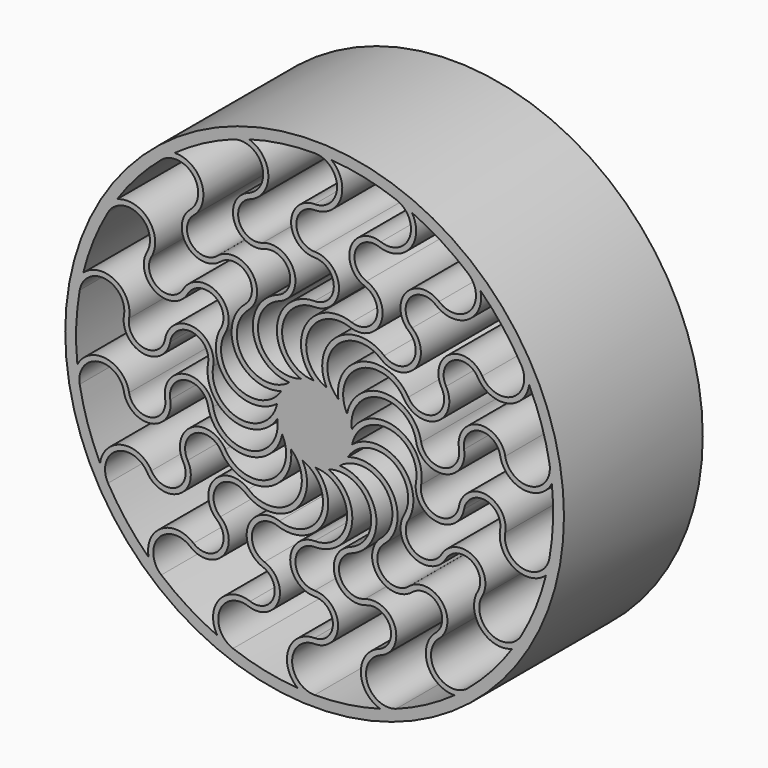
from build123d import *

# Parameters (mm, degrees)
F0_R     = 73.025
F1_DEPTH = 50.8


with BuildPart() as f1:
    # F0 (on Front) → F1 (new body)
    with BuildSketch(Plane.XZ):
        Circle(F0_R)
        with BuildLine():
            ThreePointArc((-27.5923009334, -32.8832237653), (-28.2849735231, -24.9659398366), (-20.3676895943, -24.2732672469))
            ThreePointArc((-20.3676895943, -24.2732672469), (-6.273822818, -24.3647340884), (-3.5566442428, -10.5349695393))
            ThreePointArc((-3.5566442428, -10.5349695393), (1.8466499748, -22.772992989), (-10.3161825731, -28.3434786745))
            ThreePointArc((-10.3161825731, -28.3434786745), (-19.4724181317, -32.6131014353), (-15.2027953708, -41.7693369939))
            ThreePointArc((-15.2027953708, -41.7693369939), (-12.0005783002, -48.6365136629), (-18.8677549692, -51.8387307335))
            ThreePointArc((-18.8677549692, -51.8387307335), (-27.9464606725, -54.3648992486), (-28.4974587806, -63.7723869951))
            ThreePointArc((-28.4974587806, -63.7723869951), (-37.0552010619, -59.2109328947), (-44.8987145366, -53.5082043519))
            ThreePointArc((-44.8987145366, -53.5082043519), (-45.7097676112, -44.2378252884), (-36.4393885478, -43.4267722137))
            ThreePointArc((-36.4393885478, -43.4267722137), (-26.7440705164, -42.5785417967), (-27.5923009334, -32.8832237653))
        make_face(mode=Mode.SUBTRACT)
        with BuildLine():
            ThreePointArc((-14.6815566724, -40.3372454399), (-18.0403265776, -33.1343401337), (-10.8374212715, -29.7755702285))
            ThreePointArc((-10.8374212715, -29.7755702285), (2.4377648388, -25.0411346097), (0.261019442, -11.11607711))
            ThreePointArc((0.261019442, -11.11607711), (9.5241056805, -20.768021976), (0, -30.1625))
            ThreePointArc((0, -30.1625), (-7.14375, -37.30625), (0, -44.45))
            ThreePointArc((0, -44.45), (5.3578125, -49.8078125), (0, -55.165625))
            ThreePointArc((0, -55.165625), (-7.6671922381, -60.6445471384), (-4.967410787, -69.6731464057))
            ThreePointArc((-4.967410787, -69.6731464057), (-14.5691672445, -68.3137018892), (-23.8901070113, -65.6375295619))
            ThreePointArc((-23.8901070113, -65.6375295619), (-27.8229039766, -57.2036192529), (-19.3889936676, -53.2708222876))
            ThreePointArc((-19.3889936676, -53.2708222876), (-10.5684867461, -49.1577523613), (-14.6815566724, -40.3372454399))
        make_face(mode=Mode.SUBTRACT)
        with BuildLine():
            ThreePointArc((-42.2738576058, -7.4540216745), (-37.7153435823, -0.9437889581), (-31.2051108658, -5.5023029816))
            ThreePointArc((-31.2051108658, -5.5023029816), (-20.4673762921, -14.6317335837), (-9.4962954466, -5.7840880227))
            ThreePointArc((-9.4962954466, -5.7840880227), (-13.2235817773, -18.6321284556), (-26.1214912416, -15.08125))
            ThreePointArc((-26.1214912416, -15.08125), (-35.8800352199, -12.4664560217), (-38.4948291982, -22.225))
            ThreePointArc((-38.4948291982, -22.225), (-40.4559246819, -29.5439079837), (-47.7748326656, -27.5828125))
            ThreePointArc((-47.7748326656, -27.5828125), (-56.3533145419, -23.6822903153), (-62.8224201425, -30.5346692703))
            ThreePointArc((-62.8224201425, -30.5346692703), (-66.4459848848, -21.5395819989), (-68.7888215479, -12.12932521))
            ThreePointArc((-68.7888215479, -12.12932521), (-63.4512394497, -4.5064679757), (-55.8283822154, -9.8440500739))
            ThreePointArc((-55.8283822154, -9.8440500739), (-47.8561057109, -15.426298179), (-42.2738576058, -7.4540216745))
        make_face(mode=Mode.SUBTRACT)
        with BuildLine():
            ThreePointArc((-37.1750064829, -21.463), (-35.1180352199, -13.7862787371), (-27.441313957, -15.84325))
            ThreePointArc((-27.441313957, -15.84325), (-14.2286948512, -20.7495870509), (-6.9453241415, -8.6831891626))
            ThreePointArc((-6.9453241415, -8.6831891626), (-6.0535389716, -22.031204954), (-19.3880812772, -23.1058155156))
            ThreePointArc((-19.3880812772, -23.1058155156), (-29.4524252544, -23.9863315194), (-28.5719092506, -34.0506754966))
            ThreePointArc((-28.5719092506, -34.0506754966), (-27.9115222477, -41.5989334796), (-35.4597802306, -42.2593204824))
            ThreePointArc((-35.4597802306, -42.2593204824), (-44.8549735039, -41.5280421691), (-48.5902926676, -50.1797365326))
            ThreePointArc((-48.5902926676, -50.1797365326), (-55.0718307547, -42.9664515329), (-60.4918744543, -34.925))
            ThreePointArc((-60.4918744543, -34.925), (-58.0833586677, -25.9362967133), (-49.094655381, -28.3448125))
            ThreePointArc((-49.094655381, -28.3448125), (-39.6939246819, -30.8637306991), (-37.1750064829, -21.463))
        make_face(mode=Mode.SUBTRACT)
        with BuildLine():
            ThreePointArc((0, -42.926), (-5.61975, -37.30625), (0, -31.6865))
            ThreePointArc((0, -31.6865), (10.8553220785, -22.6972047292), (4.0472003299, -10.3564217253))
            ThreePointArc((4.0472003299, -10.3564217253), (16.0528136804, -16.2581210092), (10.3161825731, -28.3434786745))
            ThreePointArc((10.3161825731, -28.3434786745), (6.0465598122, -37.4997142331), (15.2027953708, -41.7693369939))
            ThreePointArc((15.2027953708, -41.7693369939), (22.0699720398, -44.9715540646), (18.8677549692, -51.8387307335))
            ThreePointArc((18.8677549692, -51.8387307335), (13.5368527359, -59.609567625), (19.1617802587, -67.1702960937))
            ThreePointArc((19.1617802587, -67.1702960937), (9.6741231606, -69.1768302329), (0, -69.85))
            ThreePointArc((0, -69.85), (-6.5801875, -63.2698125), (0, -56.689625))
            ThreePointArc((0, -56.689625), (6.8818125, -49.8078125), (0, -42.926))
        make_face(mode=Mode.SUBTRACT)
        with BuildLine():
            ThreePointArc((14.6815566724, -40.3372454399), (7.4786513663, -36.9784755346), (10.8374212715, -29.7755702285))
            ThreePointArc((10.8374212715, -29.7755702285), (17.963567268, -17.6156569834), (7.3452291277, -8.3476290362))
            ThreePointArc((7.3452291277, -8.3476290362), (20.6453154361, -9.7872507045), (19.3880812772, -23.1058155156))
            ThreePointArc((19.3880812772, -23.1058155156), (18.5075652733, -33.1701594928), (28.5719092506, -34.0506754966))
            ThreePointArc((28.5719092506, -34.0506754966), (36.1201672335, -34.7110624995), (35.4597802306, -42.2593204824))
            ThreePointArc((35.4597802306, -42.2593204824), (33.1081534873, -51.3847945125), (40.9797778074, -56.5657167448))
            ThreePointArc((40.9797778074, -56.5657167448), (32.7505715377, -61.6962119093), (23.8901070113, -65.6375295619))
            ThreePointArc((23.8901070113, -65.6375295619), (15.4561967023, -61.7047325966), (19.3889936676, -53.2708222876))
            ThreePointArc((19.3889936676, -53.2708222876), (23.5020635939, -44.4503153661), (14.6815566724, -40.3372454399))
        make_face(mode=Mode.SUBTRACT)
        with BuildLine():
            ThreePointArc((27.5923009334, -32.8832237653), (19.6750170047, -32.1905511756), (20.3676895943, -24.2732672469))
            ThreePointArc((20.3676895943, -24.2732672469), (22.905141131, -10.4094010259), (9.7573148887, -5.3319890873))
            ThreePointArc((9.7573148887, -5.3319890873), (22.7476874578, -2.1358935203), (26.1214912416, -15.08125))
            ThreePointArc((26.1214912416, -15.08125), (28.7362852199, -24.8397939783), (38.4948291982, -22.225))
            ThreePointArc((38.4948291982, -22.225), (45.8137371819, -20.2639045163), (47.7748326656, -27.5828125))
            ThreePointArc((47.7748326656, -27.5828125), (48.6861223038, -36.9622568231), (57.8550093554, -39.1384771355))
            ThreePointArc((57.8550093554, -39.1384771355), (51.8768176403, -46.7741198903), (44.8987145366, -53.5082043519))
            ThreePointArc((44.8987145366, -53.5082043519), (35.6283354731, -52.6971512772), (36.4393885478, -43.4267722137))
            ThreePointArc((36.4393885478, -43.4267722137), (37.2876189648, -33.7314541824), (27.5923009334, -32.8832237653))
        make_face(mode=Mode.SUBTRACT)
        with BuildLine():
            ThreePointArc((37.1750064829, -21.463), (29.4982852199, -23.5199712629), (27.441313957, -15.84325))
            ThreePointArc((27.441313957, -15.84325), (25.0840169297, -1.9476176784), (10.9925244714, -1.6732325628))
            ThreePointArc((10.9925244714, -1.6732325628), (22.106352652, 5.7730839448), (29.7042638502, -5.2376631589))
            ThreePointArc((29.7042638502, -5.2376631589), (35.4989850666, -13.5133827137), (43.7747046214, -7.7186614973))
            ThreePointArc((43.7747046214, -7.7186614973), (49.9814942875, -3.372620585), (54.3275351998, -9.5794102511))
            ThreePointArc((54.3275351998, -9.5794102511), (58.3918262398, -18.0815254559), (67.7520729262, -16.9905595611))
            ThreePointArc((67.7520729262, -16.9905595611), (64.7459539153, -26.2103787), (60.4918744543, -34.925))
            ThreePointArc((60.4918744543, -34.925), (51.5031711677, -37.3335157867), (49.094655381, -28.3448125))
            ThreePointArc((49.094655381, -28.3448125), (46.5757371819, -18.9440818009), (37.1750064829, -21.463))
        make_face(mode=Mode.SUBTRACT)
        with BuildLine():
            ThreePointArc((42.2738576058, -7.4540216745), (35.7636248894, -12.0125356981), (31.2051108658, -5.5023029816))
            ThreePointArc((31.2051108658, -5.5023029816), (24.237390086, 6.749077105), (10.9018733705, 2.1873405031))
            ThreePointArc((10.9018733705, 2.1873405031), (18.7986654613, 12.9857422846), (29.7042638502, 5.2376631589))
            ThreePointArc((29.7042638502, 5.2376631589), (37.979983405, -0.5570580575), (43.7747046214, 7.7186614973))
            ThreePointArc((43.7747046214, 7.7186614973), (48.1207455337, 13.9254511634), (54.3275351998, 9.5794102511))
            ThreePointArc((54.3275351998, 9.5794102511), (61.0546141597, 2.9801047361), (69.477236588, 7.2066702502))
            ThreePointArc((69.477236588, 7.2066702502), (69.8057725995, -2.4852790146), (68.7888215479, -12.12932521))
            ThreePointArc((68.7888215479, -12.12932521), (61.1659643135, -17.4669073082), (55.8283822154, -9.8440500739))
            ThreePointArc((55.8283822154, -9.8440500739), (50.2461341102, -1.8717735694), (42.2738576058, -7.4540216745))
        make_face(mode=Mode.SUBTRACT)
        with BuildLine():
            ThreePointArc((-42.2738576058, 7.4540216745), (-35.7636248894, 12.0125356981), (-31.2051108658, 5.5023029816))
            ThreePointArc((-31.2051108658, 5.5023029816), (-24.237390086, -6.749077105), (-10.9018733705, -2.1873405031))
            ThreePointArc((-10.9018733705, -2.1873405031), (-18.7986654613, -12.9857422846), (-29.7042638502, -5.2376631589))
            ThreePointArc((-29.7042638502, -5.2376631589), (-37.979983405, 0.5570580575), (-43.7747046214, -7.7186614973))
            ThreePointArc((-43.7747046214, -7.7186614973), (-48.1207455337, -13.9254511634), (-54.3275351998, -9.5794102511))
            ThreePointArc((-54.3275351998, -9.5794102511), (-61.0546141597, -2.9801047361), (-69.477236588, -7.2066702502))
            ThreePointArc((-69.477236588, -7.2066702502), (-69.8057725995, 2.4852790146), (-68.7888215479, 12.12932521))
            ThreePointArc((-68.7888215479, 12.12932521), (-61.1659643135, 17.4669073082), (-55.8283822154, 9.8440500739))
            ThreePointArc((-55.8283822154, 9.8440500739), (-50.2461341102, 1.8717735694), (-42.2738576058, 7.4540216745))
        make_face(mode=Mode.SUBTRACT)
        with BuildLine():
            ThreePointArc((-37.1750064829, 21.463), (-29.4982852199, 23.5199712629), (-27.441313957, 15.84325))
            ThreePointArc((-27.441313957, 15.84325), (-25.0840169297, 1.9476176784), (-10.9925244714, 1.6732325628))
            ThreePointArc((-10.9925244714, 1.6732325628), (-22.106352652, -5.7730839448), (-29.7042638502, 5.2376631589))
            ThreePointArc((-29.7042638502, 5.2376631589), (-35.4989850666, 13.5133827137), (-43.7747046214, 7.7186614973))
            ThreePointArc((-43.7747046214, 7.7186614973), (-49.9814942875, 3.372620585), (-54.3275351998, 9.5794102511))
            ThreePointArc((-54.3275351998, 9.5794102511), (-58.3918262398, 18.0815254559), (-67.7520729262, 16.9905595611))
            ThreePointArc((-67.7520729262, 16.9905595611), (-64.7459539153, 26.2103787), (-60.4918744543, 34.925))
            ThreePointArc((-60.4918744543, 34.925), (-51.5031711677, 37.3335157867), (-49.094655381, 28.3448125))
            ThreePointArc((-49.094655381, 28.3448125), (-46.5757371819, 18.9440818009), (-37.1750064829, 21.463))
        make_face(mode=Mode.SUBTRACT)
        with BuildLine():
            ThreePointArc((-27.5923009334, 32.8832237653), (-19.6750170047, 32.1905511756), (-20.3676895943, 24.2732672469))
            ThreePointArc((-20.3676895943, 24.2732672469), (-22.905141131, 10.4094010259), (-9.7573148887, 5.3319890873))
            ThreePointArc((-9.7573148887, 5.3319890873), (-22.7476874578, 2.1358935203), (-26.1214912416, 15.08125))
            ThreePointArc((-26.1214912416, 15.08125), (-28.7362852199, 24.8397939783), (-38.4948291982, 22.225))
            ThreePointArc((-38.4948291982, 22.225), (-45.8137371819, 20.2639045163), (-47.7748326656, 27.5828125))
            ThreePointArc((-47.7748326656, 27.5828125), (-48.6861223038, 36.9622568231), (-57.8550093554, 39.1384771355))
            ThreePointArc((-57.8550093554, 39.1384771355), (-51.8768176403, 46.7741198903), (-44.8987145366, 53.5082043519))
            ThreePointArc((-44.8987145366, 53.5082043519), (-35.6283354731, 52.6971512772), (-36.4393885478, 43.4267722137))
            ThreePointArc((-36.4393885478, 43.4267722137), (-37.2876189648, 33.7314541824), (-27.5923009334, 32.8832237653))
        make_face(mode=Mode.SUBTRACT)
        with BuildLine():
            ThreePointArc((-14.6815566724, 40.3372454399), (-7.4786513663, 36.9784755346), (-10.8374212715, 29.7755702285))
            ThreePointArc((-10.8374212715, 29.7755702285), (-17.963567268, 17.6156569834), (-7.3452291277, 8.3476290362))
            ThreePointArc((-7.3452291277, 8.3476290362), (-20.6453154361, 9.7872507045), (-19.3880812772, 23.1058155156))
            ThreePointArc((-19.3880812772, 23.1058155156), (-18.5075652733, 33.1701594928), (-28.5719092506, 34.0506754966))
            ThreePointArc((-28.5719092506, 34.0506754966), (-36.1201672335, 34.7110624995), (-35.4597802306, 42.2593204824))
            ThreePointArc((-35.4597802306, 42.2593204824), (-33.1081534873, 51.3847945125), (-40.9797778074, 56.5657167448))
            ThreePointArc((-40.9797778074, 56.5657167448), (-32.7505715377, 61.6962119093), (-23.8901070113, 65.6375295619))
            ThreePointArc((-23.8901070113, 65.6375295619), (-15.4561967023, 61.7047325966), (-19.3889936676, 53.2708222876))
            ThreePointArc((-19.3889936676, 53.2708222876), (-23.5020635939, 44.4503153661), (-14.6815566724, 40.3372454399))
        make_face(mode=Mode.SUBTRACT)
        with BuildLine():
            ThreePointArc((-19.1617802587, 67.1702960937), (-9.6741231606, 69.1768302329), (0, 69.85))
            ThreePointArc((0, 69.85), (6.5801875, 63.2698125), (0, 56.689625))
            ThreePointArc((0, 56.689625), (-6.8818125, 49.8078125), (0, 42.926))
            ThreePointArc((0, 42.926), (5.61975, 37.30625), (0, 31.6865))
            ThreePointArc((0, 31.6865), (-10.8553220785, 22.6972047292), (-4.0472003299, 10.3564217253))
            ThreePointArc((-4.0472003299, 10.3564217253), (-16.0528136804, 16.2581210092), (-10.3161825731, 28.3434786745))
            ThreePointArc((-10.3161825731, 28.3434786745), (-6.0465598122, 37.4997142331), (-15.2027953708, 41.7693369939))
            ThreePointArc((-15.2027953708, 41.7693369939), (-22.0699720398, 44.9715540646), (-18.8677549692, 51.8387307335))
            ThreePointArc((-18.8677549692, 51.8387307335), (-13.5368527359, 59.609567625), (-19.1617802587, 67.1702960937))
        make_face(mode=Mode.SUBTRACT)
        with BuildLine():
            ThreePointArc((37.1750064829, 21.463), (35.1180352199, 13.7862787371), (27.441313957, 15.84325))
            ThreePointArc((27.441313957, 15.84325), (14.2286948512, 20.7495870509), (6.9453241415, 8.6831891626))
            ThreePointArc((6.9453241415, 8.6831891626), (6.0535389716, 22.031204954), (19.3880812772, 23.1058155156))
            ThreePointArc((19.3880812772, 23.1058155156), (29.4524252544, 23.9863315194), (28.5719092506, 34.0506754966))
            ThreePointArc((28.5719092506, 34.0506754966), (27.9115222477, 41.5989334796), (35.4597802306, 42.2593204824))
            ThreePointArc((35.4597802306, 42.2593204824), (44.8549735039, 41.5280421691), (48.5902926676, 50.1797365326))
            ThreePointArc((48.5902926676, 50.1797365326), (55.0718307547, 42.9664515329), (60.4918744543, 34.925))
            ThreePointArc((60.4918744543, 34.925), (58.0833586677, 25.9362967133), (49.094655381, 28.3448125))
            ThreePointArc((49.094655381, 28.3448125), (39.6939246819, 30.8637306991), (37.1750064829, 21.463))
        make_face(mode=Mode.SUBTRACT)
        with BuildLine():
            ThreePointArc((42.2738576058, 7.4540216745), (37.7153435823, 0.9437889581), (31.2051108658, 5.5023029816))
            ThreePointArc((31.2051108658, 5.5023029816), (20.4673762921, 14.6317335837), (9.4962954466, 5.7840880227))
            ThreePointArc((9.4962954466, 5.7840880227), (13.2235817773, 18.6321284556), (26.1214912416, 15.08125))
            ThreePointArc((26.1214912416, 15.08125), (35.8800352199, 12.4664560217), (38.4948291982, 22.225))
            ThreePointArc((38.4948291982, 22.225), (40.4559246819, 29.5439079837), (47.7748326656, 27.5828125))
            ThreePointArc((47.7748326656, 27.5828125), (56.3533145419, 23.6822903153), (62.8224201425, 30.5346692703))
            ThreePointArc((62.8224201425, 30.5346692703), (66.4459848848, 21.5395819989), (68.7888215479, 12.12932521))
            ThreePointArc((68.7888215479, 12.12932521), (63.4512394497, 4.5064679757), (55.8283822154, 9.8440500739))
            ThreePointArc((55.8283822154, 9.8440500739), (47.8561057109, 15.426298179), (42.2738576058, 7.4540216745))
        make_face(mode=Mode.SUBTRACT)
        with BuildLine():
            ThreePointArc((0, 30.1625), (7.14375, 37.30625), (0, 44.45))
            ThreePointArc((0, 44.45), (-5.3578125, 49.8078125), (0, 55.165625))
            ThreePointArc((0, 55.165625), (7.6671922381, 60.6445471384), (4.967410787, 69.6731464057))
            ThreePointArc((4.967410787, 69.6731464057), (14.5691672445, 68.3137018892), (23.8901070113, 65.6375295619))
            ThreePointArc((23.8901070113, 65.6375295619), (27.8229039766, 57.2036192529), (19.3889936676, 53.2708222876))
            ThreePointArc((19.3889936676, 53.2708222876), (10.5684867461, 49.1577523613), (14.6815566724, 40.3372454399))
            ThreePointArc((14.6815566724, 40.3372454399), (18.0403265776, 33.1343401337), (10.8374212715, 29.7755702285))
            ThreePointArc((10.8374212715, 29.7755702285), (-2.4377648388, 25.0411346097), (-0.261019442, 11.11607711))
            ThreePointArc((-0.261019442, 11.11607711), (-9.5241056805, 20.768021976), (0, 30.1625))
        make_face(mode=Mode.SUBTRACT)
        with BuildLine():
            ThreePointArc((27.5923009334, 32.8832237653), (28.2849735231, 24.9659398366), (20.3676895943, 24.2732672469))
            ThreePointArc((20.3676895943, 24.2732672469), (6.273822818, 24.3647340884), (3.5566442428, 10.5349695393))
            ThreePointArc((3.5566442428, 10.5349695393), (-1.8466499748, 22.772992989), (10.3161825731, 28.3434786745))
            ThreePointArc((10.3161825731, 28.3434786745), (19.4724181317, 32.6131014353), (15.2027953708, 41.7693369939))
            ThreePointArc((15.2027953708, 41.7693369939), (12.0005783002, 48.6365136629), (18.8677549692, 51.8387307335))
            ThreePointArc((18.8677549692, 51.8387307335), (27.9464606725, 54.3648992486), (28.4974587806, 63.7723869951))
            ThreePointArc((28.4974587806, 63.7723869951), (37.0552010619, 59.2109328947), (44.8987145366, 53.5082043519))
            ThreePointArc((44.8987145366, 53.5082043519), (45.7097676112, 44.2378252884), (36.4393885478, 43.4267722137))
            ThreePointArc((36.4393885478, 43.4267722137), (26.7440705164, 42.5785417967), (27.5923009334, 32.8832237653))
        make_face(mode=Mode.SUBTRACT)
    extrude(amount=F1_DEPTH)


solid = f1.part
